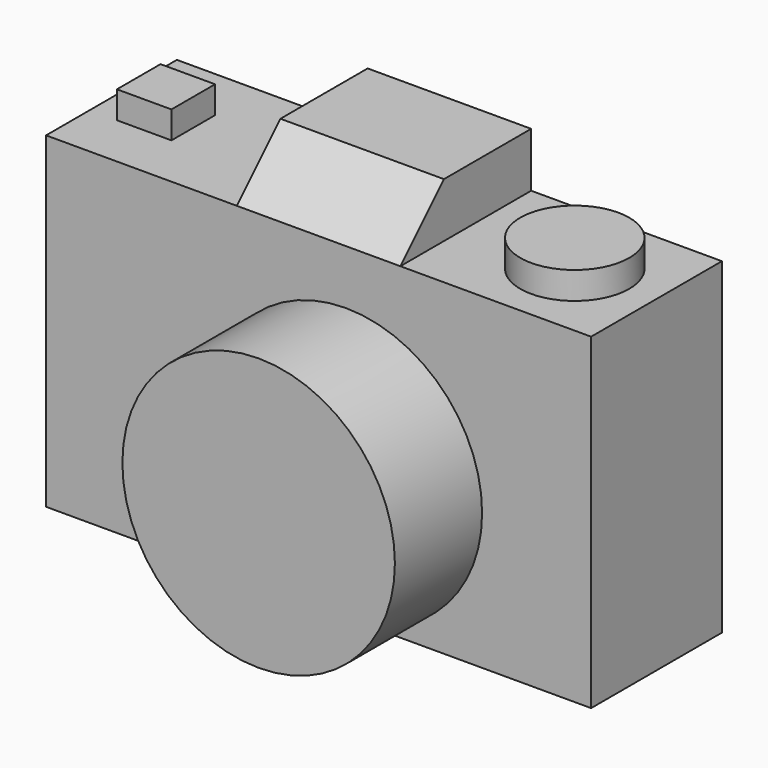
from build123d import *

# Parameters (mm, degrees)
F0_W     = 30
F0_H     = 10
F1_DEPTH = 30
F2_R     = 25
F3_DEPTH = 20
F4_W     = 10
F4_H     = 10
F4_R     = 10
F5_DEPTH = 5
F6_SIZE2 = 10
F6_SIZE  = 10


with BuildPart() as f1:
    # F0 (on Front) → F1 (new body)
    with BuildSketch(Plane.XZ):
        with BuildLine():
            ThreePointArc((3.65e-08, -25), (17.6776695426, -17.6776695168), (25, 0))
            ThreePointArc((25, 0), (17.6776695297, 17.6776695297), (0, 25))
            ThreePointArc((0, 25), (-25, -1.82e-08), (3.65e-08, -25))
        make_face()
        with BuildLine():
            ThreePointArc((0, 25), (17.6776695297, 17.6776695297), (25, 0))
            ThreePointArc((25, 0), (17.6776695426, -17.6776695168), (3.65e-08, -25))
            Line((3.65e-08, -25), (45, -25))
            Line((45, -25), (45, 25))
            Line((45, 25), (0, 25))
        make_face()
        with BuildLine():
            ThreePointArc((3.65e-08, -25), (-25, -1.82e-08), (0, 25))
            Line((0, 25), (-55, 25))
            Line((-55, 25), (-55, -25))
            Line((-55, -25), (3.65e-08, -25))
        make_face()
        Polygon((-55, 25), (0, 25), (45, 25), (45, 35), (10, 35), (-20, 35), (-55, 35), align=None)
        with Locations((-5, 40)):
            Rectangle(F0_W, F0_H)
    extrude(amount=F1_DEPTH)

    # F2 (on face) → F3 (join)
    with BuildSketch(Plane.XZ.offset(30)):
        Circle(F2_R)
    extrude(amount=F3_DEPTH)

    # F4 (on face) → F5 (join)
    with BuildSketch(Plane.XY.offset(35)):
        with Locations((-45, -15)):
            Rectangle(F4_W, F4_H)
        with Locations((30, -15)):
            Circle(F4_R)
    extrude(amount=F5_DEPTH)

    # F6
    f6_edges = [f1.edges().sort_by_distance(p)[0] for p in [
        (-5, -30, 45),
    ]]
    chamfer(f6_edges, length=F6_SIZE, length2=F6_SIZE2)


solid = f1.part
